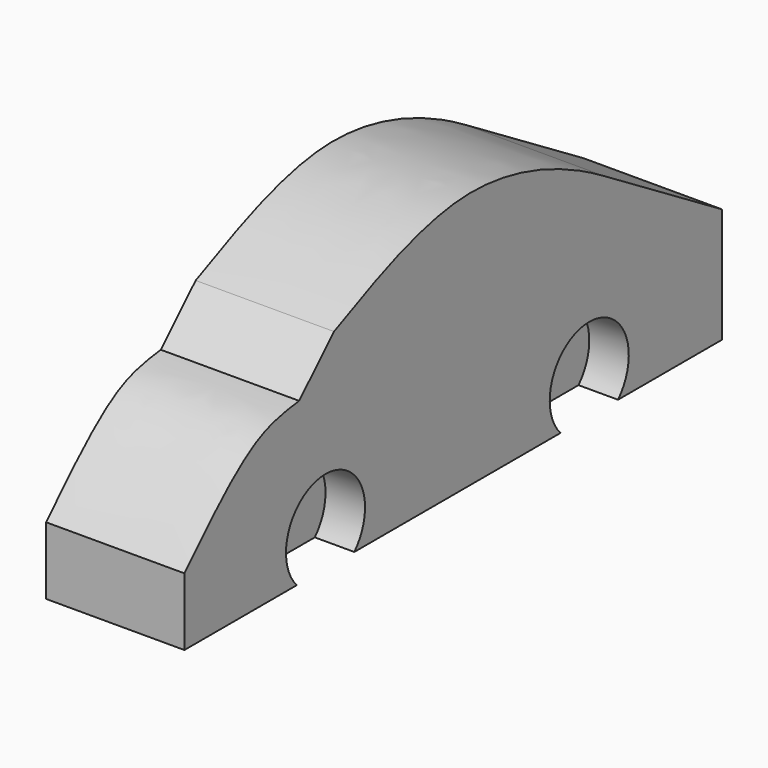
from build123d import *

# Parameters (mm, degrees)
F1_DEPTH = 889
F3_DEPTH = 254


with BuildPart() as f1:
    # F0 (on Right) → F1 (new body)
    with BuildSketch(Plane.YZ):
        with BuildLine():
            Line((-4318, 0), (0, 0))
            Line((0, 0), (0, 738.1399869919))
            Line((0, 738.1399869919), (-950.1339793205, 1313.4015798569))
            add(Edge.make_bspline(
                [(-3116.3589595044, 1313.4015798569), (-2828.8090955066, 1445.195247453), (-2067.6608718539, 1826.8352239431), (-1270.3827619553, 1509.1091394424), (-950.1339793205, 1313.4015798569)],
                knots=[0, 0, 0, 0, 0.4920571993, 1, 1, 1, 1], degree=3))
            Line((-3116.3589595044, 1313.4015798569), (-3396.3003158569, 1035.1848602295))
            add(Edge.make_bspline(
                [(-4318, 433.9663982391), (-4118.4465186343, 639.9933583912), (-3782.9496026472, 986.3737335576), (-3507.7935980343, 1021.1097981374), (-3396.3003158569, 1035.1848602295)],
                knots=[0, 0, 0, 0, 0.5947997488, 1, 1, 1, 1], degree=3))
            Line((-4318, 433.9663982391), (-4318, 0))
        make_face()
    extrude(amount=F1_DEPTH)

    # F2 (on face) → F3 (cut)
    with BuildSketch(Plane.YZ.offset(889)):
        with BuildLine():
            ThreePointArc((-748.2704991237, 217.563778162), (-1182.7904415761, 512.71218671), (-1297.0111798697, 0))
            Line((-1297.0111798697, 0), (-834.5298183776, 0))
            ThreePointArc((-834.5298183777, 0), (-770.6220905756, 100.5438357096), (-748.2704991237, 217.563778162))
        make_face()
        with BuildLine():
            ThreePointArc((-2953.1179430142, 0), (-2889.2102152122, 100.5438357096), (-2866.8586237603, 217.563778162))
            ThreePointArc((-2866.8586237603, 217.563778162), (-3301.3785662127, 512.71218671), (-3415.5993045063, 0))
            Line((-3415.5993045062, 0), (-2953.1179430142, 0))
        make_face()
    extrude(amount=-F3_DEPTH, mode=Mode.SUBTRACT)


solid = f1.part
